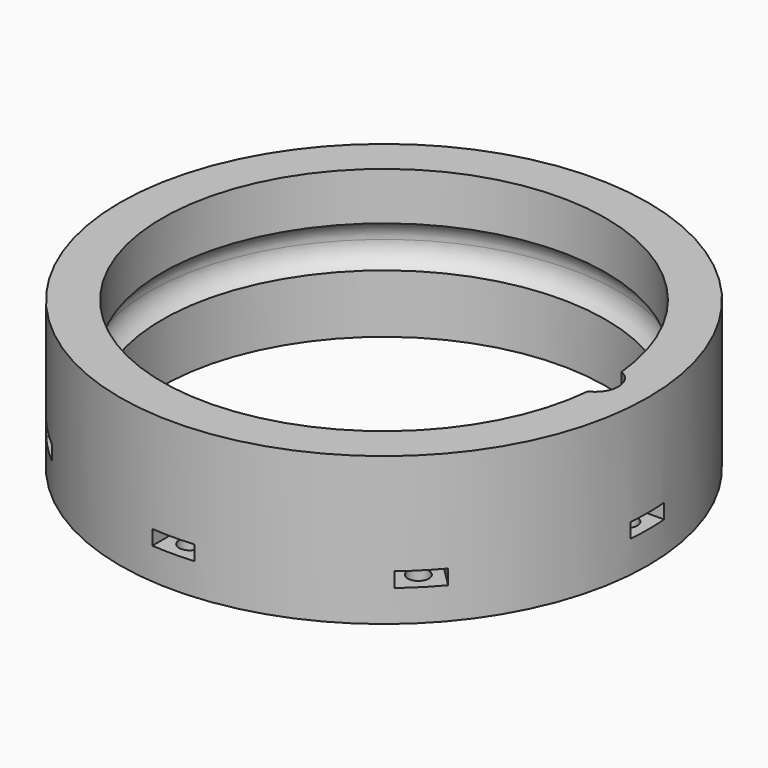
from build123d import *

# Parameters (mm, degrees)
CYLINDER2755_R               = 2.2
CYLINDER2755_DEPTH           = 10
CYLINDER2763_R               = 1
CYLINDER2763_DEPTH           = 20
CYLINDER2763_PLACEMENT_ANGLE = 45
CYLINDER2762_R               = 1
CYLINDER2762_DEPTH           = 20
CYLINDER2760_R               = 1
CYLINDER2760_DEPTH           = 20
CYLINDER2761_R               = 1
CYLINDER2761_DEPTH           = 20
CYLINDER2761_PLACEMENT_ANGLE = 225
CYLINDER2759_R               = 1
CYLINDER2759_DEPTH           = 20
CYLINDER2759_PLACEMENT_ANGLE = 135
CYLINDER2757_R               = 1
CYLINDER2757_DEPTH           = 20
CYLINDER2757_PLACEMENT_ANGLE = 45
CYLINDER2758_R               = 1
CYLINDER2758_DEPTH           = 20
CYLINDER2756_R               = 1
CYLINDER2756_DEPTH           = 20
BOX953_W                     = 4
BOX953_H                     = 4
BOX953_DEPTH                 = 1.4
BOX953_PLACEMENT_ANGLE       = 45
BOX954_W                     = 4
BOX954_H                     = 4
BOX954_DEPTH                 = 1.4
BOX955_W                     = 4
BOX955_H                     = 4
BOX955_DEPTH                 = 1.4
BOX955_PLACEMENT_ANGLE       = 135
BOX956_W                     = 4
BOX956_H                     = 4
BOX956_DEPTH                 = 1.4
BOX957_W                     = 4
BOX957_H                     = 4
BOX957_DEPTH                 = 1.4
BOX957_PLACEMENT_ANGLE       = 225
BOX958_W                     = 4
BOX958_H                     = 4
BOX958_DEPTH                 = 1.4
BOX959_W                     = 4
BOX959_H                     = 4
BOX959_DEPTH                 = 1.4
BOX959_PLACEMENT_ANGLE       = 45
BOX952_W                     = 4
BOX952_H                     = 4
BOX952_DEPTH                 = 1.4
TORUS006_R                   = 2.2
TUBE134_R                    = 25
TUBE134_R_2                  = 21
TUBE134_DEPTH                = 14


with BuildPart() as obj1:
    # Cylinder2755 → Cylinder2755 (new body)
    with BuildSketch(Plane(origin=(20, 0, 17.5), x_dir=(1, 0, 0), z_dir=(0, 0, 1))):
        Circle(CYLINDER2755_R)
    extrude(amount=CYLINDER2755_DEPTH)


with BuildPart() as obj2:
    # Cylinder2763 → Cylinder2763 (new body)
    with BuildSketch(Plane.XY):
        Circle(CYLINDER2763_R)
    extrude(amount=CYLINDER2763_DEPTH)


with BuildPart() as obj2_1:
    # Cylinder2763 placement: moved
    add(obj2.part.moved(Location((16.26, 16.26, 8))).rotate(Axis((16.26, 16.26, 8), (0, 0, -1)), CYLINDER2763_PLACEMENT_ANGLE))


with BuildPart() as obj3:
    # Cylinder2762 → Cylinder2762 (new body)
    with BuildSketch(Plane(origin=(23, 0, 8), x_dir=(0, -1, 0), z_dir=(0, 0, 1))):
        Circle(CYLINDER2762_R)
    extrude(amount=CYLINDER2762_DEPTH)


with BuildPart() as obj4:
    # Cylinder2760 → Cylinder2760 (new body)
    with BuildSketch(Plane(origin=(0, -23, 8), x_dir=(-1, 0, 0), z_dir=(0, 0, 1))):
        Circle(CYLINDER2760_R)
    extrude(amount=CYLINDER2760_DEPTH)


with BuildPart() as obj5:
    # Cylinder2761 → Cylinder2761 (new body)
    with BuildSketch(Plane.XY):
        Circle(CYLINDER2761_R)
    extrude(amount=CYLINDER2761_DEPTH)


with BuildPart() as obj5_1:
    # Cylinder2761 placement: moved
    add(obj5.part.moved(Location((16.26, -16.26, 8))).rotate(Axis((16.26, -16.26, 8), (0, 0, 1)), CYLINDER2761_PLACEMENT_ANGLE))


with BuildPart() as obj6:
    # Cylinder2759 → Cylinder2759 (new body)
    with BuildSketch(Plane.XY):
        Circle(CYLINDER2759_R)
    extrude(amount=CYLINDER2759_DEPTH)


with BuildPart() as obj6_1:
    # Cylinder2759 placement: moved
    add(obj6.part.moved(Location((-16.26, -16.26, 8))).rotate(Axis((-16.26, -16.26, 8), (0, 0, 1)), CYLINDER2759_PLACEMENT_ANGLE))


with BuildPart() as obj7:
    # Cylinder2757 → Cylinder2757 (new body)
    with BuildSketch(Plane.XY):
        Circle(CYLINDER2757_R)
    extrude(amount=CYLINDER2757_DEPTH)


with BuildPart() as obj7_1:
    # Cylinder2757 placement: moved
    add(obj7.part.moved(Location((-16.26, 16.26, 8))).rotate(Axis((-16.26, 16.26, 8), (0, 0, 1)), CYLINDER2757_PLACEMENT_ANGLE))


with BuildPart() as obj8:
    # Cylinder2758 → Cylinder2758 (new body)
    with BuildSketch(Plane(origin=(-23, 0, 8), x_dir=(0, 1, 0), z_dir=(0, 0, 1))):
        Circle(CYLINDER2758_R)
    extrude(amount=CYLINDER2758_DEPTH)


with BuildPart() as compound1233:
    # Cylinder2756 → Cylinder2756 (new body)
    with BuildSketch(Plane(origin=(0, 23, 8), x_dir=(1, 0, 0), z_dir=(0, 0, 1))):
        Circle(CYLINDER2756_R)
    extrude(amount=CYLINDER2756_DEPTH)

    # Compound1233: union obj2, obj3, obj4, obj5, obj6, obj7, obj8
    add(obj2_1.part)
    add(obj3.part)
    add(obj4.part)
    add(obj5_1.part)
    add(obj6_1.part)
    add(obj7_1.part)
    add(obj8.part)


with BuildPart() as compound1233_1:
    # Compound1233 placement: moved
    add(compound1233.part.moved(Location((0, 0, -12))))


with BuildPart() as krychle952:
    # Box953 → Box953 (new body)
    with BuildSketch(Plane.XY):
        with Locations((2, 2)):
            Rectangle(BOX953_W, BOX953_H)
    extrude(amount=BOX953_DEPTH)


with BuildPart() as krychle952_1:
    # Box953 placement: moved
    add(krychle952.part.moved(Location((-16.263456, 13.435029, 14))).rotate(Axis((-16.263456, 13.435029, 14), (0, 0, 1)), BOX953_PLACEMENT_ANGLE))


with BuildPart() as krychle953:
    # Box954 → Box954 (new body)
    with BuildSketch(Plane(origin=(-21, -2, 14), x_dir=(0, 1, 0), z_dir=(0, 0, 1))):
        with Locations((2, 2)):
            Rectangle(BOX954_W, BOX954_H)
    extrude(amount=BOX954_DEPTH)


with BuildPart() as krychle954:
    # Box955 → Box955 (new body)
    with BuildSketch(Plane.XY):
        with Locations((2, 2)):
            Rectangle(BOX955_W, BOX955_H)
    extrude(amount=BOX955_DEPTH)


with BuildPart() as krychle954_1:
    # Box955 placement: moved
    add(krychle954.part.moved(Location((-13.435029, -16.263456, 14))).rotate(Axis((-13.435029, -16.263456, 14), (0, 0, 1)), BOX955_PLACEMENT_ANGLE))


with BuildPart() as krychle955:
    # Box956 → Box956 (new body)
    with BuildSketch(Plane(origin=(2, -21, 14), x_dir=(-1, 0, 0), z_dir=(0, 0, 1))):
        with Locations((2, 2)):
            Rectangle(BOX956_W, BOX956_H)
    extrude(amount=BOX956_DEPTH)


with BuildPart() as krychle956:
    # Box957 → Box957 (new body)
    with BuildSketch(Plane.XY):
        with Locations((2, 2)):
            Rectangle(BOX957_W, BOX957_H)
    extrude(amount=BOX957_DEPTH)


with BuildPart() as krychle956_1:
    # Box957 placement: moved
    add(krychle956.part.moved(Location((16.263456, -13.435029, 14))).rotate(Axis((16.263456, -13.435029, 14), (0, 0, 1)), BOX957_PLACEMENT_ANGLE))


with BuildPart() as krychle957:
    # Box958 → Box958 (new body)
    with BuildSketch(Plane(origin=(21, 2, 14), x_dir=(0, -1, 0), z_dir=(0, 0, 1))):
        with Locations((2, 2)):
            Rectangle(BOX958_W, BOX958_H)
    extrude(amount=BOX958_DEPTH)


with BuildPart() as krychle958:
    # Box959 → Box959 (new body)
    with BuildSketch(Plane.XY):
        with Locations((2, 2)):
            Rectangle(BOX959_W, BOX959_H)
    extrude(amount=BOX959_DEPTH)


with BuildPart() as krychle958_1:
    # Box959 placement: moved
    add(krychle958.part.moved(Location((13.435029, 16.263456, 14))).rotate(Axis((13.435029, 16.263456, 14), (0, 0, -1)), BOX959_PLACEMENT_ANGLE))


with BuildPart() as compound1234:
    # Box952 → Box952 (new body)
    with BuildSketch(Plane(origin=(-2, 21, 14), x_dir=(1, 0, 0), z_dir=(0, 0, 1))):
        with Locations((2, 2)):
            Rectangle(BOX952_W, BOX952_H)
    extrude(amount=BOX952_DEPTH)

    # Compound1234: union Krychle952, Krychle953, Krychle954, Krychle955, Krychle956, Krychle957, Krychle958
    add(krychle952_1.part)
    add(krychle953.part)
    add(krychle954_1.part)
    add(krychle955.part)
    add(krychle956_1.part)
    add(krychle957.part)
    add(krychle958_1.part)


with BuildPart() as compound1234_1:
    # Compound1234 placement: moved
    add(compound1234.part.moved(Location((0, 0, -1))))


with BuildPart() as obj9:
    # Torus006 → Torus006 (revolve)
    with BuildSketch(Plane(origin=(0, 0, 17.5), x_dir=(1, 0, 0), z_dir=(0, -1, 0))):
        with Locations((20, 0)):
            Circle(TORUS006_R)
    revolve(axis=Axis((0, 0, 17.5), (0, 0, 1)))


with BuildPart() as cut1041:
    # Tube134 → Tube134 (new body)
    with BuildSketch(Plane.XY.offset(10)):
        Circle(TUBE134_R)
        Circle(TUBE134_R_2, mode=Mode.SUBTRACT)
    extrude(amount=TUBE134_DEPTH)

    # Cut1040: cut obj9
    add(obj9.part, mode=Mode.SUBTRACT)

    # Cut1039: cut Compound1234
    add(compound1234_1.part, mode=Mode.SUBTRACT)

    # Cut1038: cut Compound1233
    add(compound1233_1.part, mode=Mode.SUBTRACT)

    # Cut1041: cut obj1
    add(obj1.part, mode=Mode.SUBTRACT)


solid = cut1041.part
